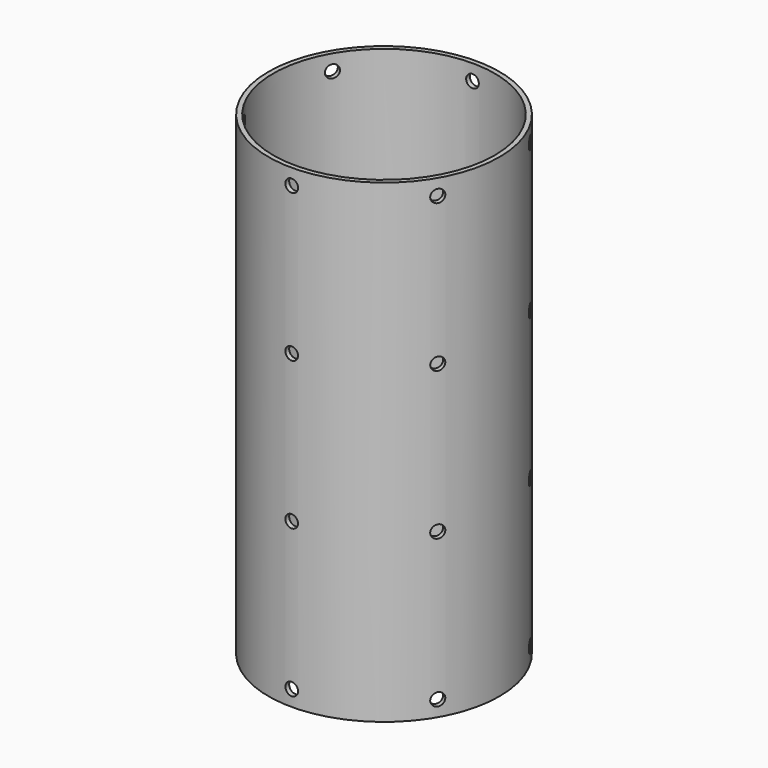
from build123d import *

# Parameters (mm, degrees)
SKETCH_R           = 35
PAD_DEPTH          = 75
THICKNESS_T        = 1.5
SKETCH001_R        = 2
POCKET_DEPTH       = 400.687765
POLARPATTERN_COUNT = 6


with BuildPart() as part:
    # Sketch → Pad (new body, symmetric)
    with BuildSketch(Plane.XY):
        Circle(SKETCH_R)
    extrude(amount=PAD_DEPTH, both=True)

    # Thickness
    thickness_openings = [part.faces().sort_by_distance(p)[0] for p in [
        (0, 0, 75),
        (0, 0, -75),
    ]]
    offset(amount=THICKNESS_T, openings=thickness_openings)

    # Sketch001 → Pocket (cut, through all)
    with BuildSketch(Plane.XZ):
        with Locations((0, 70)):
            Circle(SKETCH001_R)
        with Locations((0, 23.333333)):
            Circle(SKETCH001_R)
        with Locations((0, -23.333333)):
            Circle(SKETCH001_R)
        with Locations((0, -70)):
            Circle(SKETCH001_R)
    pocket = extrude(amount=-POCKET_DEPTH, mode=Mode.SUBTRACT)

    # PolarPattern: Pocket ×6 about axis
    polarpattern_axis = Axis((0, 0, 0), (0, 0, 1))
    for i in range(1, POLARPATTERN_COUNT):
        add(pocket.rotate(polarpattern_axis, i * 360 / POLARPATTERN_COUNT), mode=Mode.SUBTRACT)


solid = part.part
